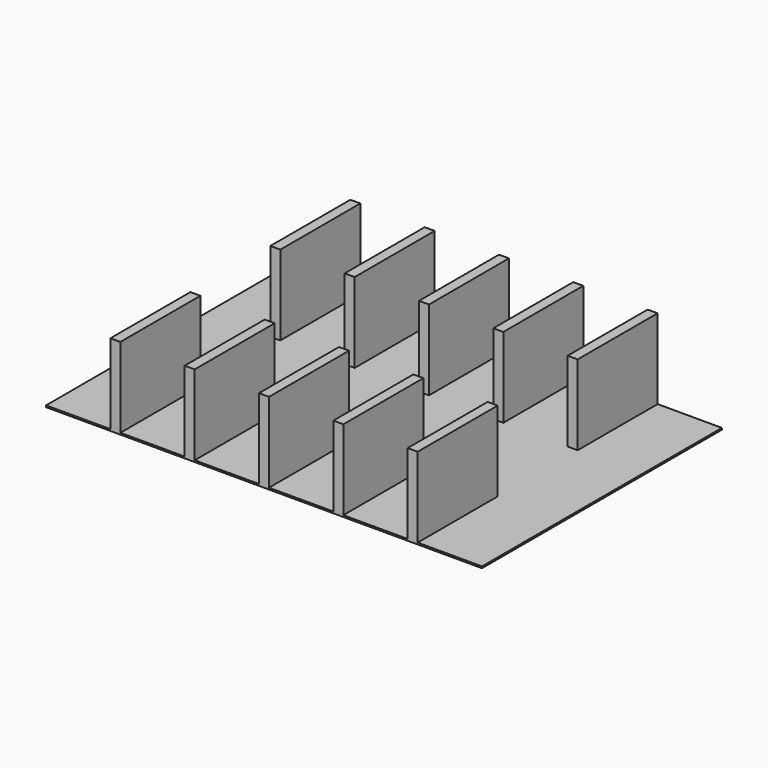
from build123d import *

# Parameters (mm, degrees)
F0_W     = 980.44
F0_H     = 1524
F0_W_2   = 152.4
F1_DEPTH = 25.4
F2_DEPTH = 1219.2


with BuildPart() as f1:
    # F0 (on Top) → F1 (new body)
    with BuildSketch(Plane.XY):
        Polygon((-2993.798816, 762), (-3322.32, 762), (-3322.32, -762), (-2341.88, -762), (-2189.48, -762), (-1209.04, -762), (-1056.64, -762), (-76.2, -762), (76.2, -762), (1056.64, -762), (1209.04, -762), (2189.48, -762), (2341.88, -762), (3322.32, -762), (3322.32, 762), (2341.88, 762), (2189.48, 762), (1209.04, 762), (1056.64, 762), (76.2, 762), (-76.2, 762), (-1056.64, 762), (-1209.04, 762), (-2189.48, 762), (-2341.88, 762), align=None)
        with Locations((-2832.1, -1524)):
            Rectangle(F0_W, F0_H)
        with Locations((-2265.68, -1524)):
            Rectangle(F0_W_2, F0_H)
        with Locations((-1132.84, -1524)):
            Rectangle(F0_W_2, F0_H)
        with Locations((-566.42, -1524)):
            Rectangle(F0_W, F0_H)
        with Locations((566.42, -1524)):
            Rectangle(F0_W, F0_H)
        with Locations((1699.26, -1524)):
            Rectangle(F0_W, F0_H)
        with Locations((2832.1, -1524)):
            Rectangle(F0_W, F0_H)
        with Locations((2832.1, 1524)):
            Rectangle(F0_W, F0_H)
        with Locations((2265.68, 1524)):
            Rectangle(F0_W_2, F0_H)
        with Locations((1699.26, 1524)):
            Rectangle(F0_W, F0_H)
        with Locations((-566.42, 1524)):
            Rectangle(F0_W, F0_H)
        with Locations((-1699.26, 1524)):
            Rectangle(F0_W, F0_H)
        Polygon((-2341.88, 2286), (-3322.32, 2286), (-3322.32, 762), (-2993.798816, 762), (-2341.88, 762), align=None)
        with Locations((-1132.84, 1524)):
            Rectangle(F0_W_2, F0_H)
        with Locations((-2265.68, 1524)):
            Rectangle(F0_W_2, F0_H)
        with Locations((0, 1524)):
            Rectangle(F0_W_2, F0_H)
        with Locations((1132.84, -1524)):
            Rectangle(F0_W_2, F0_H)
        with Locations((566.42, 1524)):
            Rectangle(F0_W, F0_H)
        with Locations((1132.84, 1524)):
            Rectangle(F0_W_2, F0_H)
        with Locations((2265.68, -1524)):
            Rectangle(F0_W_2, F0_H)
        with Locations((0, -1524)):
            Rectangle(F0_W_2, F0_H)
        with Locations((-1699.26, -1524)):
            Rectangle(F0_W, F0_H)
    extrude(amount=-F1_DEPTH)

    # F0 (on Top) → F2 (join)
    with BuildSketch(Plane.XY):
        with Locations((-2265.68, -1524)):
            Rectangle(F0_W_2, F0_H)
        with Locations((-2265.68, 1524)):
            Rectangle(F0_W_2, F0_H)
        with Locations((-1132.84, -1524)):
            Rectangle(F0_W_2, F0_H)
        with Locations((-1132.84, 1524)):
            Rectangle(F0_W_2, F0_H)
        with Locations((0, -1524)):
            Rectangle(F0_W_2, F0_H)
        with Locations((0, 1524)):
            Rectangle(F0_W_2, F0_H)
        with Locations((1132.84, 1524)):
            Rectangle(F0_W_2, F0_H)
        with Locations((1132.84, -1524)):
            Rectangle(F0_W_2, F0_H)
        with Locations((2265.68, -1524)):
            Rectangle(F0_W_2, F0_H)
        with Locations((2265.68, 1524)):
            Rectangle(F0_W_2, F0_H)
    extrude(amount=F2_DEPTH)


solid = f1.part
